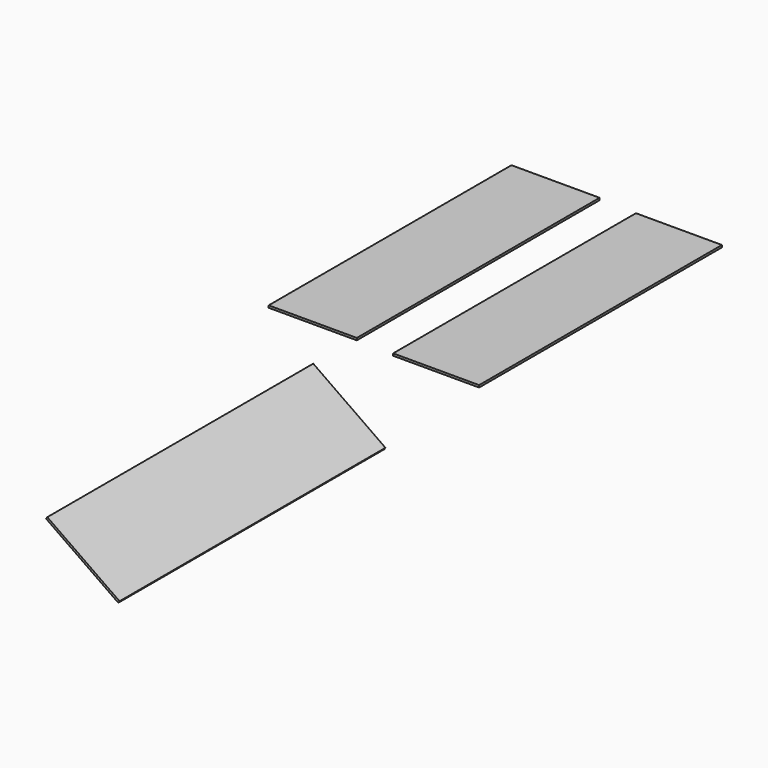
from build123d import *

# Parameters (mm, degrees)
F0_W     = 610
F0_H     = 2100
F1_DEPTH = 15
F2_W     = 595
F2_H     = 2100
F3_DEPTH = 15
F5_DEPTH = 2300


with BuildPart() as f1:
    # F0 (on Top) → F1 (new body)
    with BuildSketch(Plane.XY):
        with Locations((-335.805787, 1068.440085)):
            Rectangle(F0_W, F0_H)
    extrude(amount=F1_DEPTH)


with BuildPart() as f3:
    # F2 (on Top) → F3 (new body)
    with BuildSketch(Plane.XY):
        with Locations((532.749718, 1050)):
            Rectangle(F2_W, F2_H)
    extrude(amount=F3_DEPTH)


with BuildPart() as f5:
    # F4 (on Front) → F5 (new body)
    with BuildSketch(Plane.XZ):
        Polygon((-326.202482, -239.783511), (173.480265, -589.665137), (182.083912, -577.377856), (-317.598835, -227.49623), align=None)
    extrude(amount=F5_DEPTH)


solid = Compound([f1.part, f3.part, f5.part])
